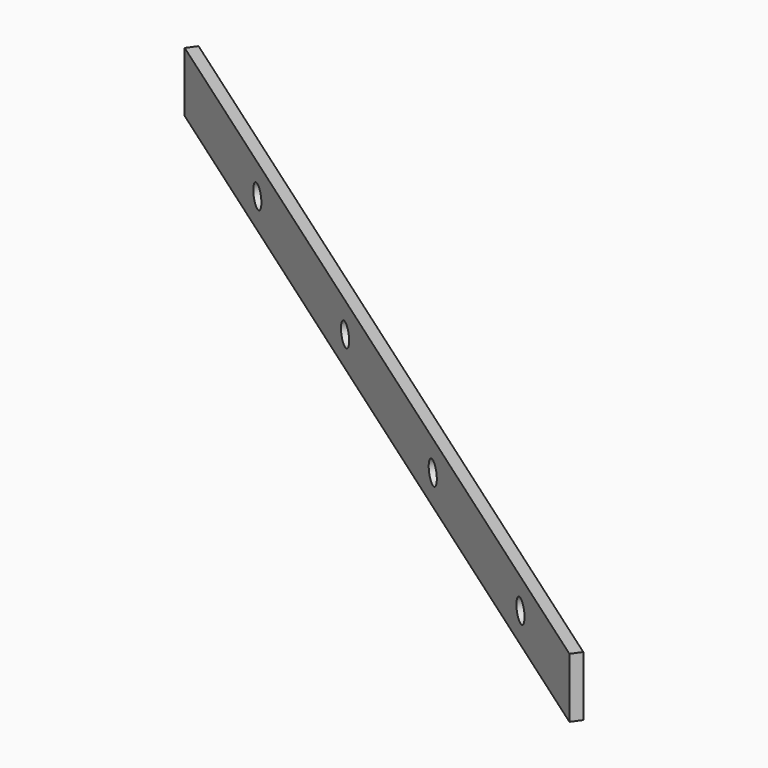
from build123d import *

# Parameters (mm, degrees)
PAD006_DEPTH           = 32
SKETCH036_R            = 6
POCKET004_DEPTH        = 273.900652
LINEARPATTERN002_COUNT = 4
LINEARPATTERN002_PITCH = 130


with BuildPart() as part:
    # Sketch035 → Pad006 (new body)
    with BuildSketch(Plane.XY):
        Polygon((-456.887332, 341.7), (10.181459, 14.654912), (6.74, 9.74), (-460.32879, 336.785088), align=None)
    extrude(amount=PAD006_DEPTH)

    # Sketch036 (on Face3 of Pad006) → Pocket004 (cut, through all)
    with BuildSketch(Plane(origin=(6.793695, 9.702402, 0), x_dir=(0.819152, -0.573576, 0), z_dir=(-0.573576, -0.819152, 0))):
        with Locations((-462.664681, 16)):
            Circle(SKETCH036_R)
    pocket004 = extrude(amount=-POCKET004_DEPTH, mode=Mode.SUBTRACT)

    # LinearPattern002: Pocket004 ×4
    with Locations(*[Vector(0.819152, -0.573576, 0) * (i * LINEARPATTERN002_PITCH) for i in range(1, LINEARPATTERN002_COUNT)]):
        add(pocket004, mode=Mode.SUBTRACT)


with BuildPart() as part_1:
    # Body005 placement: moved
    add(part.part.moved(Location((0, 0, 9))))


solid = part_1.part
